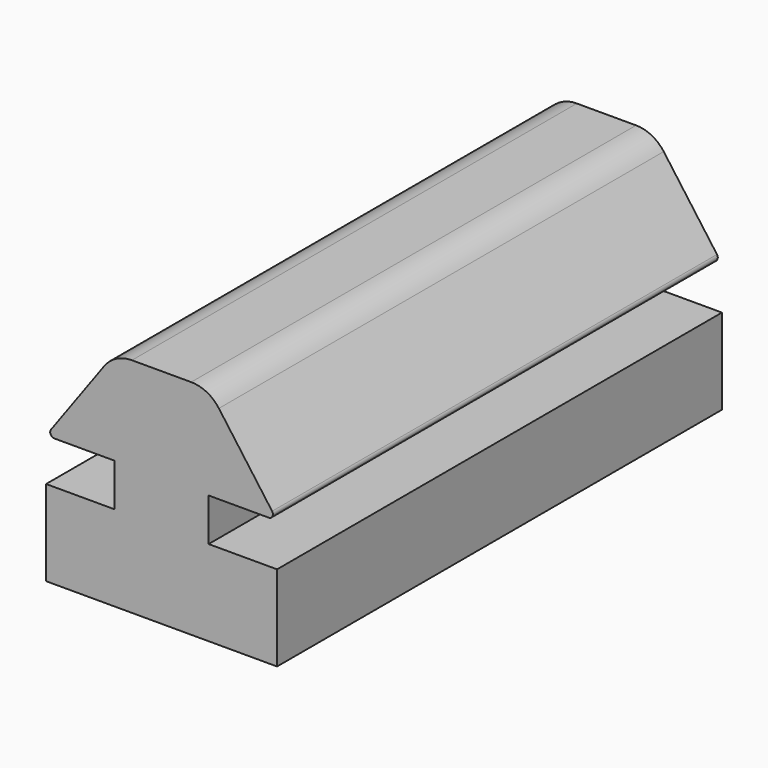
from build123d import *

# Parameters (mm, degrees)
F0_W     = 2.75
F0_H     = 5.5
F1_DEPTH = 32.5
F2_R     = 2
F3_R     = 0.25


with BuildPart() as f1:
    # F0 (on Front) → F1 (new body)
    with BuildSketch(Plane.XZ):
        with Locations((1.375, 2.75)):
            Rectangle(F0_W, F0_H)
        Polygon((0, 0), (-2.75, 0), (-2.75, -2.5), (-6.75, -2.5), (-6.75, -7.5), (6.75, -7.5), (6.75, -2.5), (2.75, -2.5), (2.75, 0), align=None)
        Polygon((2.75, 5.5), (2.75, 0), (6.75, 0), align=None)
        with Locations((-1.375, 2.75)):
            Rectangle(F0_W, F0_H)
        Polygon((-2.75, 5.5), (-6.75, 0), (-2.75, 0), align=None)
    extrude(amount=F1_DEPTH)

    # F2
    f2_edges = [f1.edges().sort_by_distance(p)[0] for p in [
        (2.75, -16.25, 5.5),
        (-2.75, -16.25, 5.5),
    ]]
    fillet(f2_edges, radius=F2_R)

    # F3
    f3_edges = [f1.edges().sort_by_distance(p)[0] for p in [
        (6.75, -16.25, 0),
        (-6.75, -16.25, 0),
    ]]
    fillet(f3_edges, radius=F3_R)


solid = f1.part
